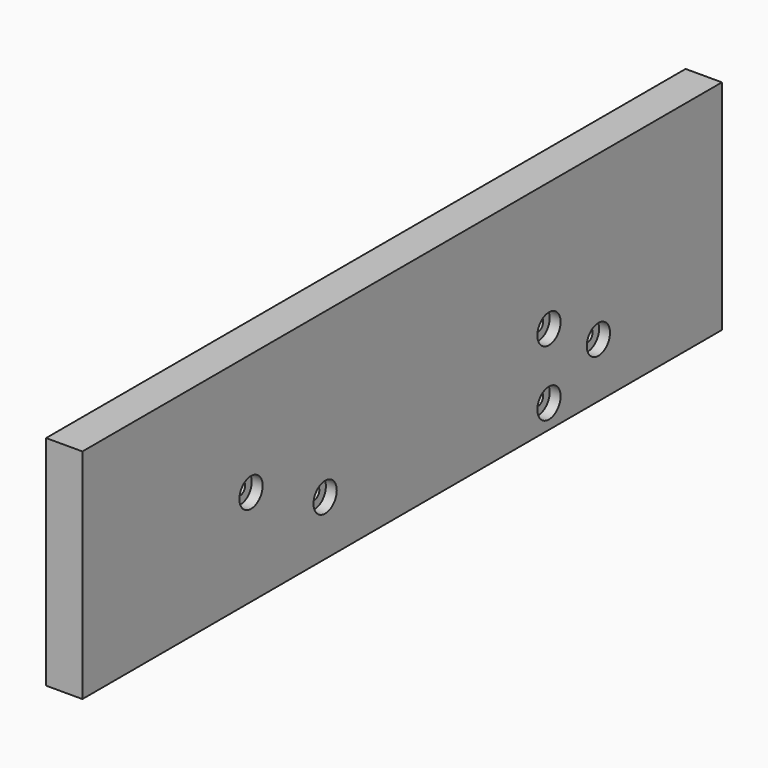
from build123d import *

# Parameters (mm, degrees)
SKETCH012_W          = 220
SKETCH012_H          = 60
PAD006_DEPTH         = 10
SKETCH017_R          = 1.75
POCKET010_DEPTH      = 10.001
POCKET010_DEPTH_BACK = 0.001
SKETCH018_R          = 4
POCKET011_DEPTH      = 3


with BuildPart() as part:
    # Sketch012 → Pad006 (new body)
    with BuildSketch(Plane.YZ):
        with Locations((0, 40)):
            Rectangle(SKETCH012_W, SKETCH012_H)
    extrude(amount=PAD006_DEPTH)

    # Sketch017 (on Face6 of Pad006) → Pocket010 (cut, two sides)
    with BuildSketch(Plane.YZ.offset(10)) as pocket010_sk:
        with Locations((-52, 36.5)):
            Circle(SKETCH017_R)
        with Locations((-26.5, 25)):
            Circle(SKETCH017_R)
        with Locations((50.5, 34.5)):
            Circle(SKETCH017_R)
        with Locations((50.5, 16.5)):
            Circle(SKETCH017_R)
        with Locations((67.5, 25)):
            Circle(SKETCH017_R)
    extrude(amount=-POCKET010_DEPTH, mode=Mode.SUBTRACT)
    extrude(pocket010_sk.sketch, amount=POCKET010_DEPTH_BACK, mode=Mode.SUBTRACT)

    # Sketch018 (on Face5 of Pocket010) → Pocket011 (cut)
    with BuildSketch(Plane.YZ.offset(10)):
        with Locations((-52, 36.5)):
            Circle(SKETCH018_R)
        with Locations((-26.5, 25)):
            Circle(SKETCH018_R)
        with Locations((50.5, 34.5)):
            Circle(SKETCH018_R)
        with Locations((50.5, 16.5)):
            Circle(SKETCH018_R)
        with Locations((67.5, 25)):
            Circle(SKETCH018_R)
    extrude(amount=-POCKET011_DEPTH, mode=Mode.SUBTRACT)


solid = part.part
